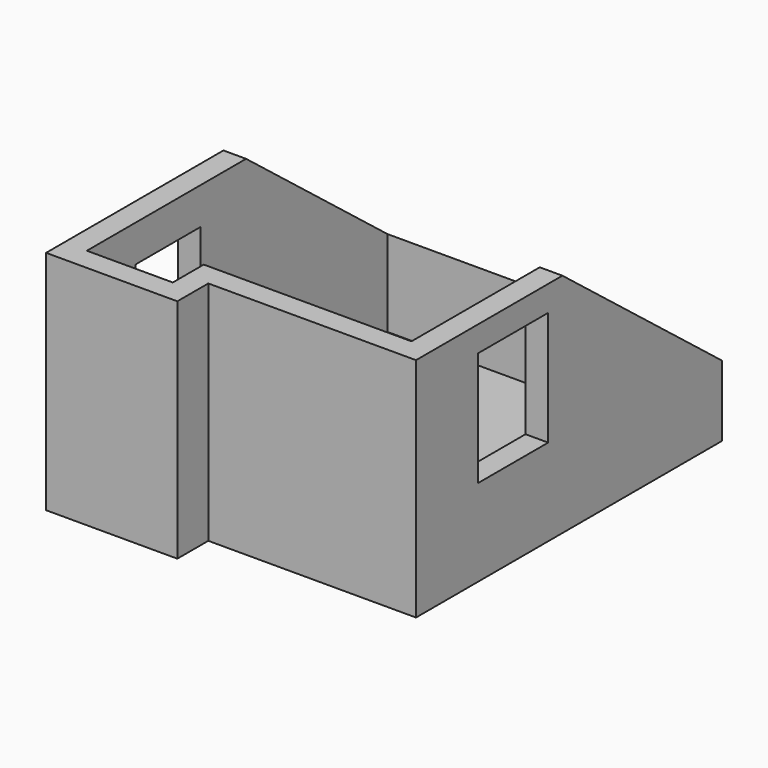
from build123d import *

# Parameters (mm, degrees)
F1_DEPTH = 2400
F2_W     = 860
F2_H     = 2010
F3_DEPTH = 240
F5_DEPTH = 3590.001
F6_W     = 930
F6_H     = 1210
F7_DEPTH = 240
F9_DEPTH = 25


with BuildPart() as f1:
    # F0 (on Top) → F1 (new body)
    with BuildSketch(Plane.XY):
        Polygon((-240, 3810), (-240, -650), (1150, -650), (1150, -240), (3350, -240), (3350, 3810), align=None)
        Polygon((3110, 0), (910, 0), (910, -410), (0, -410), (0, 0), (0, 3570), (3110, 3570), align=None, mode=Mode.SUBTRACT)
    extrude(amount=F1_DEPTH)

    # F2 (on face) → F3 (cut, through all)
    with BuildSketch(Plane(origin=(-240, 0, 0), x_dir=(0, -1, 0), z_dir=(-1, 0, 0))):
        with Locations((-667.104549, 1005)):
            Rectangle(F2_W, F2_H)
    extrude(amount=-F3_DEPTH, mode=Mode.SUBTRACT)

    # F4 (on face) → F5 (cut, through all)
    with BuildSketch(Plane(origin=(-240, 0, 0), x_dir=(0, -1, 0), z_dir=(-1, 0, 0))):
        Polygon((-3810, 2400), (-3810, 750), (-1698.096307, 2400), align=None)
    extrude(amount=-F5_DEPTH, mode=Mode.SUBTRACT)

    # F6 (on face) → F7 (cut, through all)
    with BuildSketch(Plane(origin=(3110, 0, 0), x_dir=(0, -1, 0), z_dir=(-1, 0, 0))):
        with Locations((-1045, 1525)):
            Rectangle(F6_W, F6_H)
    extrude(amount=-F7_DEPTH, mode=Mode.SUBTRACT)


with BuildPart() as f9:
    # F8 (on face) → F9 (new body)
    with BuildSketch(Plane(origin=(0, 0, 0), x_dir=(1, 0, 0), z_dir=(0, 0, -1))):
        Polygon((0, -237.104549), (0, -1097.104549), (0, -3570), (3110, -3570), (3110, 0), (910, 0), (910, 410), (0, 410), align=None)
    extrude(amount=-F9_DEPTH)


solid = Compound([f1.part, f9.part])
